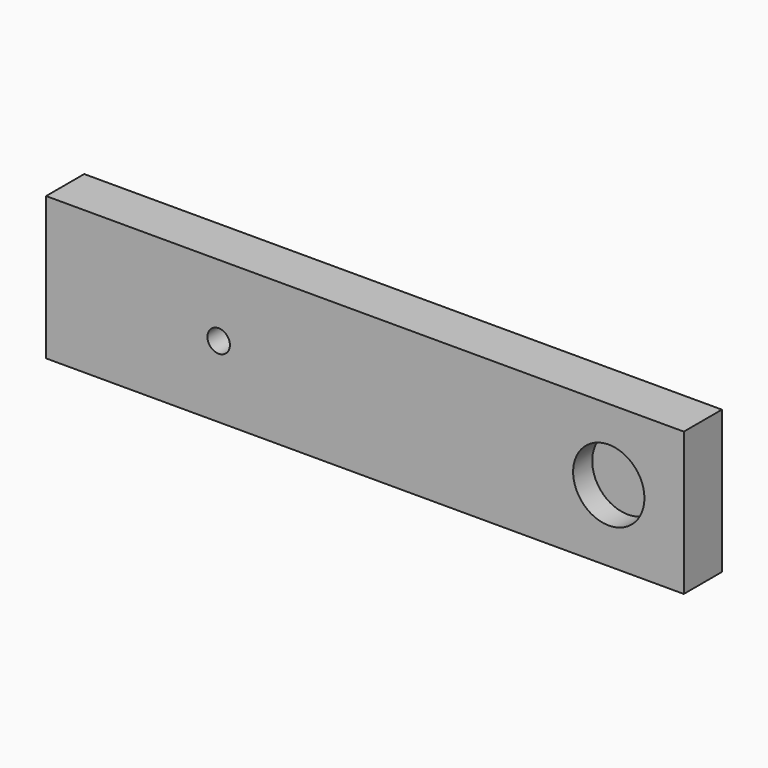
from build123d import *

# Parameters (mm, degrees)
F0_W     = 85
F0_H     = 19.05
F1_DEPTH = 3.175
F3_R     = 4.75
F3_R_2   = 1.5
F4_DEPTH = 21.8
F2_R     = 1.5
F5_DEPTH = 15


with BuildPart() as f1:
    # F0 (on Front) → F1 (new body, symmetric)
    with BuildSketch(Plane.XZ):
        Rectangle(F0_W, F0_H)
    extrude(amount=F1_DEPTH, both=True)

    # F3 (on Front) → F4 (cut)
    with BuildSketch(Plane.XZ):
        with Locations((32.5, 0)):
            Circle(F3_R)
        with Locations((-19.5, 0)):
            Circle(F3_R_2)
    extrude(amount=F4_DEPTH, mode=Mode.SUBTRACT)

    # F2 (on Top) → F5 (cut)
    with BuildSketch(Plane.XY):
        with Locations((-25.5, 0)):
            Circle(F2_R)
        with Locations((25.5, 0)):
            Circle(F2_R)
    extrude(amount=-F5_DEPTH, mode=Mode.SUBTRACT)


solid = f1.part
